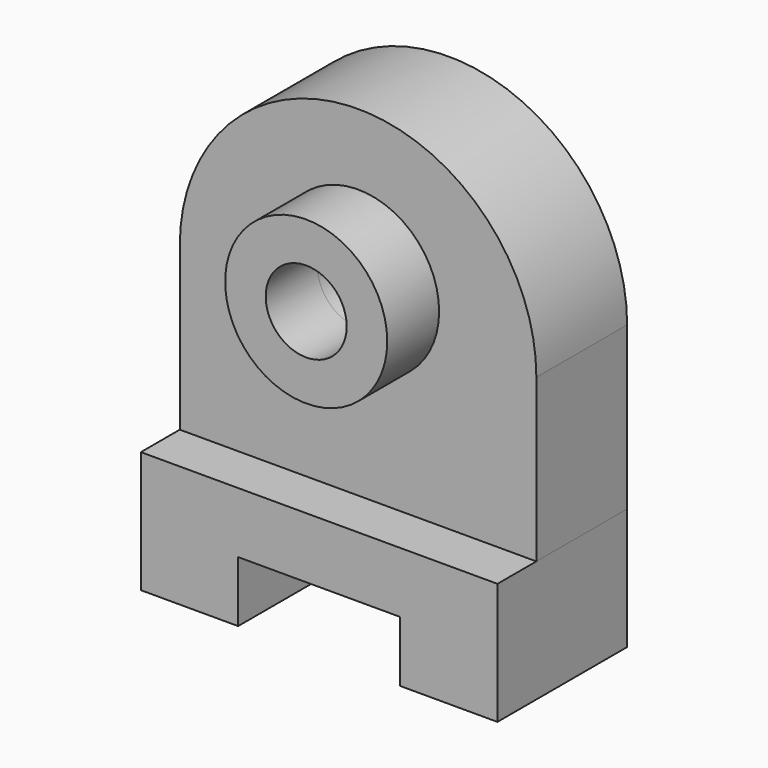
from build123d import *

# Parameters (mm, degrees)
F1_DEPTH  = 40
F3_DEPTH  = 28
F4_R      = 20
F4_R_2    = 10
F5_DEPTH  = 16
F5_FACE_R = 10
F6_DEPTH  = 100


with BuildPart() as f1:
    # F0 (on Front) → F1 (new body)
    with BuildSketch(Plane.XZ):
        Polygon((44, -10.494859), (-44, -10.494859), (-44, -40.494859), (-20, -40.494859), (-20, -25.494859), (20, -25.494859), (20, -40.494859), (44, -40.494859), align=None)
    extrude(amount=F1_DEPTH)


with BuildPart() as f3:
    # F2 (on Front) → F3 (new body)
    with BuildSketch(Plane.XZ):
        with BuildLine():
            Line((-44, -10.494859), (44, -10.494859))
            Line((44, -10.494859), (44, 29.505141))
            ThreePointArc((44, 29.505141), (0, 73.505141), (-44, 29.505141))
            Line((-44, 29.505141), (-44, -10.494859))
        make_face()
    extrude(amount=F3_DEPTH)

    # F4 (on face) → F5 (join)
    with BuildSketch(Plane.XZ.offset(28)):
        with Locations((0, 36)):
            Circle(F4_R)
        with Locations((0, 36)):
            Circle(F4_R_2, mode=Mode.SUBTRACT)
    extrude(amount=F5_DEPTH)

    # F5_face (on face) → F6 (cut)
    with BuildSketch(Plane(origin=(0, -28, 36), x_dir=(1, 0, 0), z_dir=(0, -1, 0))):
        Circle(F5_FACE_R)
    extrude(amount=-F6_DEPTH, mode=Mode.SUBTRACT)


solid = Compound([f1.part, f3.part])
